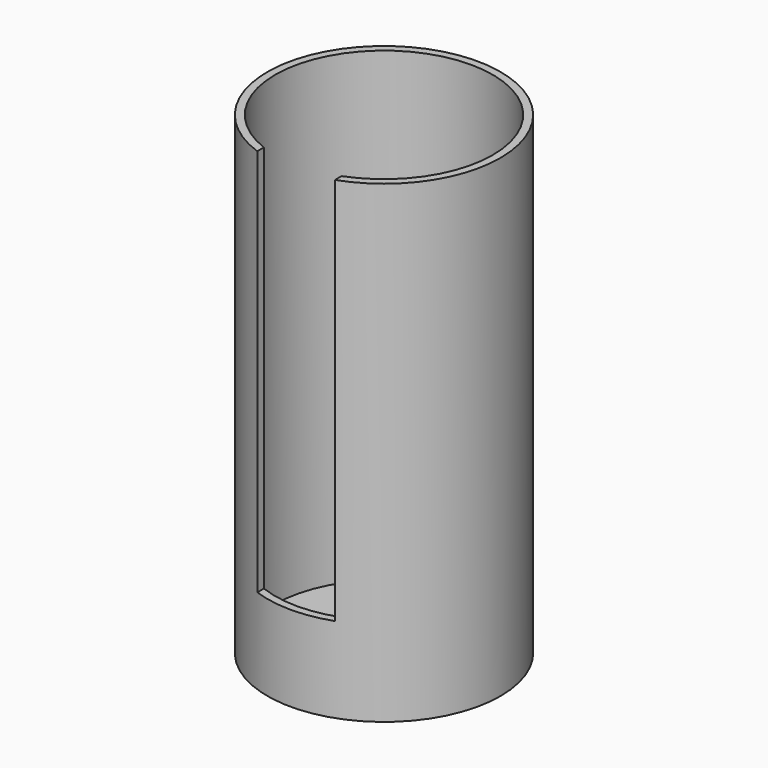
from build123d import *

# Parameters (mm, degrees)
F0_R     = 75
F1_DEPTH = 5
F2_R     = 75
F2_R_2   = 70
F3_DEPTH = 300
F5_DEPTH = 250
F6_R     = 1.5
F7_DEPTH = 25
F9_DEPTH = 10


with BuildPart() as f1:
    # F0 (on Top) → F1 (new body)
    with BuildSketch(Plane.XY):
        Circle(F0_R)
    extrude(amount=F1_DEPTH)

    # F2 (on face) → F3 (join)
    with BuildSketch(Plane.XY.offset(5)):
        Circle(F2_R)
        Circle(F2_R_2, mode=Mode.SUBTRACT)
    extrude(amount=F3_DEPTH)

    # F4 (on face) → F5 (cut)
    with BuildSketch(Plane.XY.offset(305)):
        with BuildLine():
            Line((25, -70.7106781187), (25, -65.3834841531))
            ThreePointArc((25, -65.3834841531), (0, -70), (-25, -65.3834841531))
            Line((-25, -65.3834841531), (-25, -70.7106781187))
            ThreePointArc((-25, -70.7106781187), (0, -75), (25, -70.7106781187))
        make_face()
    extrude(amount=-F5_DEPTH, mode=Mode.SUBTRACT)

    # F6 (on face) → F7 (cut)
    with BuildSketch(Plane.XY.offset(5)):
        with Locations((-15.5, 60.5)):
            Circle(F6_R)
        with BuildLine():
            ThreePointArc((17, 60.5), (15.5, 62), (14, 60.5))
            ThreePointArc((14, 60.5), (15.5, 59), (17, 60.5))
        make_face()
        with BuildLine():
            ThreePointArc((17, 29.5), (15.5, 31), (14, 29.5))
            ThreePointArc((14, 29.5), (15.5, 28), (17, 29.5))
        make_face()
        with Locations((-15.5, 29.5)):
            Circle(F6_R)
    extrude(amount=-F7_DEPTH, mode=Mode.SUBTRACT)

    # F8 (on face) → F9 (join)
    with BuildSketch(Plane.XY.offset(5)):
        with BuildLine():
            ThreePointArc((-40.1313972081, -27.5), (-40.386953511, -25.5588571617), (-41.1362066798, -23.75))
            ThreePointArc((-41.1362066798, -23.75), (-54.8758409053, -29.4411428383), (-40.1313972081, -27.5))
        make_face()
        with BuildLine():
            ThreePointArc((-42.6313972081, -27.5), (-52.4610263396, -28.7940952255), (-43.3012701892, -25))
            ThreePointArc((-43.3012701892, -25), (-42.8017680767, -26.2059047745), (-42.6313972081, -27.5))
        make_face(mode=Mode.SUBTRACT)
        with BuildLine():
            ThreePointArc((55.1313972081, -27.5), (49.5725400464, -20.2555563028), (41.1362066798, -23.75))
            ThreePointArc((41.1362066798, -23.75), (45.6902543699, -34.7444436972), (55.1313972081, -27.5))
        make_face()
        with BuildLine():
            ThreePointArc((52.6313972081, -27.5), (46.3373019826, -32.3296291314), (43.3012701892, -25))
            ThreePointArc((43.3012701892, -25), (48.9254924337, -22.6703708686), (52.6313972081, -27.5))
        make_face(mode=Mode.SUBTRACT)
    extrude(amount=F9_DEPTH)


solid = f1.part
